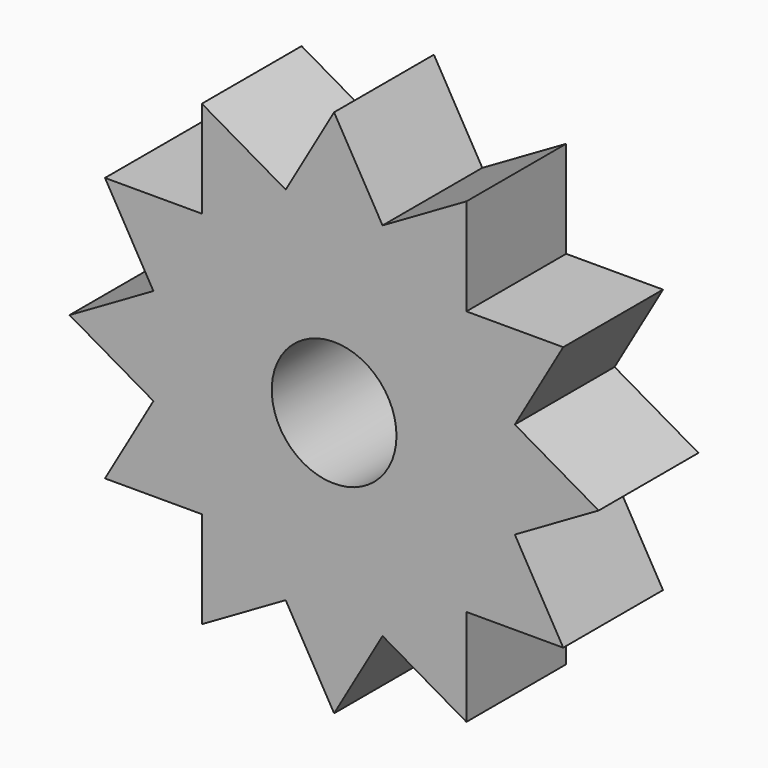
from build123d import *

# Parameters (mm, degrees)
F0_R     = 2
F1_DEPTH = 2


with BuildPart() as f1:
    # F0 (on Front) → F1 (new body, symmetric)
    with BuildSketch(Plane.XZ):
        with BuildLine():
            ThreePointArc((5.7955549577, -1.5529142706), (5.9486691682, -0.7831571533), (6, 0))
            ThreePointArc((6, 0), (5.9486691682, 0.7831571533), (5.7955549577, 1.5529142706))
            ThreePointArc((5.7955549577, 1.5529142706), (5.1961524227, 3), (4.2426406871, 4.2426406871))
            ThreePointArc((4.2426406871, 4.2426406871), (3, 5.1961524227), (1.5529142706, 5.7955549577))
            ThreePointArc((1.5529142706, 5.7955549577), (0, 6), (-1.5529142706, 5.7955549577))
            ThreePointArc((-1.5529142706, 5.7955549577), (-3, 5.1961524227), (-4.2426406871, 4.2426406871))
            ThreePointArc((-4.2426406871, 4.2426406871), (-5.1961524227, 3), (-5.7955549577, 1.5529142706))
            ThreePointArc((-5.7955549577, 1.5529142706), (-6, 0), (-5.7955549577, -1.5529142706))
            ThreePointArc((-5.7955549577, -1.5529142706), (-5.1961524227, -3), (-4.2426406871, -4.2426406871))
            ThreePointArc((-4.2426406871, -4.2426406871), (-3, -5.1961524227), (-1.5529142706, -5.7955549577))
            ThreePointArc((-1.5529142706, -5.7955549577), (0, -6), (1.5529142706, -5.7955549577))
            ThreePointArc((1.5529142706, -5.7955549577), (3, -5.1961524227), (4.2426406871, -4.2426406871))
            ThreePointArc((4.2426406871, -4.2426406871), (5.1961524227, -3), (5.7955549577, -1.5529142706))
        make_face()
        Circle(F0_R, mode=Mode.SUBTRACT)
        with BuildLine():
            ThreePointArc((5.7955549577, 1.5529142706), (5.9486691682, 0.7831571533), (6, 0))
            ThreePointArc((6, 0), (5.9486691682, -0.7831571533), (5.7955549577, -1.5529142706))
            Line((5.7955549577, -1.5529142706), (8.4852813742, 0))
            Line((8.4852813742, 0), (5.7955549577, 1.5529142706))
        make_face()
        with BuildLine():
            ThreePointArc((4.2426406871, 4.2426406871), (5.1961524227, 3), (5.7955549577, 1.5529142706))
            Line((5.7955549577, 1.5529142706), (7.3484692283, 4.2426406871))
            Line((7.3484692283, 4.2426406871), (4.2426406871, 4.2426406871))
        make_face()
        with BuildLine():
            Line((7.3484692283, -4.2426406871), (5.7955549577, -1.5529142706))
            ThreePointArc((5.7955549577, -1.5529142706), (5.1961524227, -3), (4.2426406871, -4.2426406871))
            Line((4.2426406871, -4.2426406871), (7.3484692283, -4.2426406871))
        make_face()
        with BuildLine():
            ThreePointArc((1.5529142706, 5.7955549577), (3, 5.1961524227), (4.2426406871, 4.2426406871))
            Line((4.2426406871, 4.2426406871), (4.2426406871, 7.3484692283))
            Line((4.2426406871, 7.3484692283), (1.5529142706, 5.7955549577))
        make_face()
        with BuildLine():
            Line((4.2426406871, -7.3484692283), (4.2426406871, -4.2426406871))
            ThreePointArc((4.2426406871, -4.2426406871), (3, -5.1961524227), (1.5529142706, -5.7955549577))
            Line((1.5529142706, -5.7955549577), (4.2426406871, -7.3484692283))
        make_face()
        with BuildLine():
            ThreePointArc((-1.5529142706, 5.7955549577), (0, 6), (1.5529142706, 5.7955549577))
            Line((1.5529142706, 5.7955549577), (0, 8.4852813742))
            Line((0, 8.4852813742), (-1.5529142706, 5.7955549577))
        make_face()
        with BuildLine():
            Line((0, -8.4852813742), (1.5529142706, -5.7955549577))
            ThreePointArc((1.5529142706, -5.7955549577), (0, -6), (-1.5529142706, -5.7955549577))
            Line((-1.5529142706, -5.7955549577), (0, -8.4852813742))
        make_face()
        with BuildLine():
            ThreePointArc((-4.2426406871, 4.2426406871), (-3, 5.1961524227), (-1.5529142706, 5.7955549577))
            Line((-1.5529142706, 5.7955549577), (-4.2426406871, 7.3484692283))
            Line((-4.2426406871, 7.3484692283), (-4.2426406871, 4.2426406871))
        make_face()
        with BuildLine():
            Line((-4.2426406871, -7.3484692283), (-1.5529142706, -5.7955549577))
            ThreePointArc((-1.5529142706, -5.7955549577), (-3, -5.1961524227), (-4.2426406871, -4.2426406871))
            Line((-4.2426406871, -4.2426406871), (-4.2426406871, -7.3484692283))
        make_face()
        with BuildLine():
            ThreePointArc((-5.7955549577, 1.5529142706), (-5.1961524227, 3), (-4.2426406871, 4.2426406871))
            Line((-4.2426406871, 4.2426406871), (-7.3484692283, 4.2426406871))
            Line((-7.3484692283, 4.2426406871), (-5.7955549577, 1.5529142706))
        make_face()
        with BuildLine():
            Line((-7.3484692283, -4.2426406871), (-4.2426406871, -4.2426406871))
            ThreePointArc((-4.2426406871, -4.2426406871), (-5.1961524227, -3), (-5.7955549577, -1.5529142706))
            Line((-5.7955549577, -1.5529142706), (-7.3484692283, -4.2426406871))
        make_face()
        with BuildLine():
            ThreePointArc((-5.7955549577, -1.5529142706), (-6, 0), (-5.7955549577, 1.5529142706))
            Line((-5.7955549577, 1.5529142706), (-8.4852813742, 0))
            Line((-8.4852813742, 0), (-5.7955549577, -1.5529142706))
        make_face()
    extrude(amount=F1_DEPTH, both=True)


solid = f1.part
